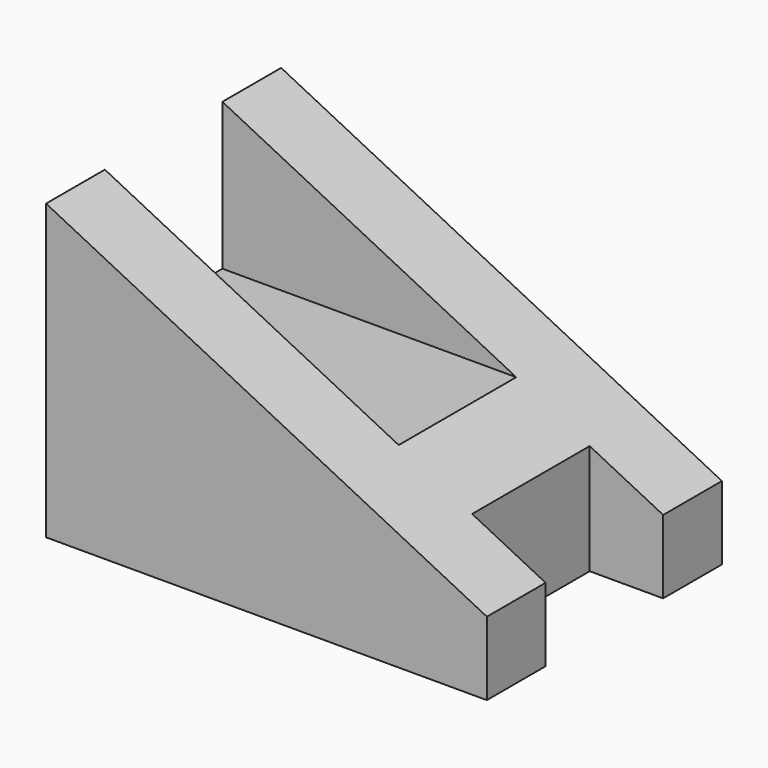
from build123d import *

# Parameters (mm, degrees)
F0_W     = 30
F0_H     = 20
F1_DEPTH = 20
F2_W     = 5
F2_H     = 10
F3_DEPTH = 20.001
F4_W     = 20
F4_H     = 10
F5_DEPTH = 10
F7_DEPTH = 20.001


with BuildPart() as f1:
    # F0 (on Top) → F1 (new body)
    with BuildSketch(Plane.XY):
        with Locations((15, 10)):
            Rectangle(F0_W, F0_H)
    extrude(amount=F1_DEPTH)

    # F2 (on face) → F3 (cut, through all)
    with BuildSketch(Plane.XY.offset(20)):
        with Locations((27.5, 10)):
            Rectangle(F2_W, F2_H)
    extrude(amount=-F3_DEPTH, mode=Mode.SUBTRACT)

    # F4 (on face) → F5 (cut)
    with BuildSketch(Plane.XY.offset(20)):
        with Locations((10, 10)):
            Rectangle(F4_W, F4_H)
    extrude(amount=-F5_DEPTH, mode=Mode.SUBTRACT)

    # F6 (on face) → F7 (cut, through all)
    with BuildSketch(Plane.XZ):
        Polygon((30, 20), (0, 20), (30, 5), align=None)
    extrude(amount=-F7_DEPTH, mode=Mode.SUBTRACT)


solid = f1.part
